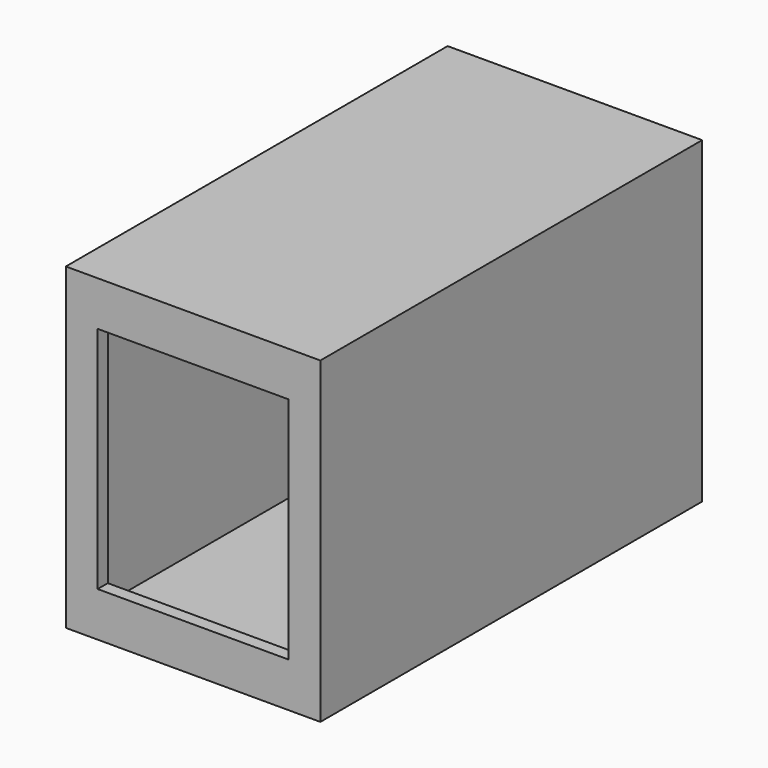
from build123d import *

# Parameters (mm, degrees)
F0_W     = 400
F0_H     = 500
F1_DEPTH = 750
F3_DEPTH = 20
F4_W     = 380
F4_H     = 480
F5_DEPTH = 618.889272


with BuildPart() as f1:
    # F0 (on Front) → F1 (new body)
    with BuildSketch(Plane.XZ):
        with Locations((200, 250)):
            Rectangle(F0_W, F0_H)
    extrude(amount=F1_DEPTH)

    # F2 (on face) → F3 (cut)
    with BuildSketch(Plane.XZ.offset(750)):
        Polygon((50, 70), (56, 70), (344, 430), (50, 430), align=None)
        Polygon((344, 430), (56, 70), (350, 70), (350, 430), align=None)
    extrude(amount=-F3_DEPTH, mode=Mode.SUBTRACT)

    # F4 (on face) → F5 (cut)
    with BuildSketch(Plane.XZ.offset(730)):
        with Locations((200, 250)):
            Rectangle(F4_W, F4_H)
    extrude(amount=-F5_DEPTH, mode=Mode.SUBTRACT)


solid = f1.part
